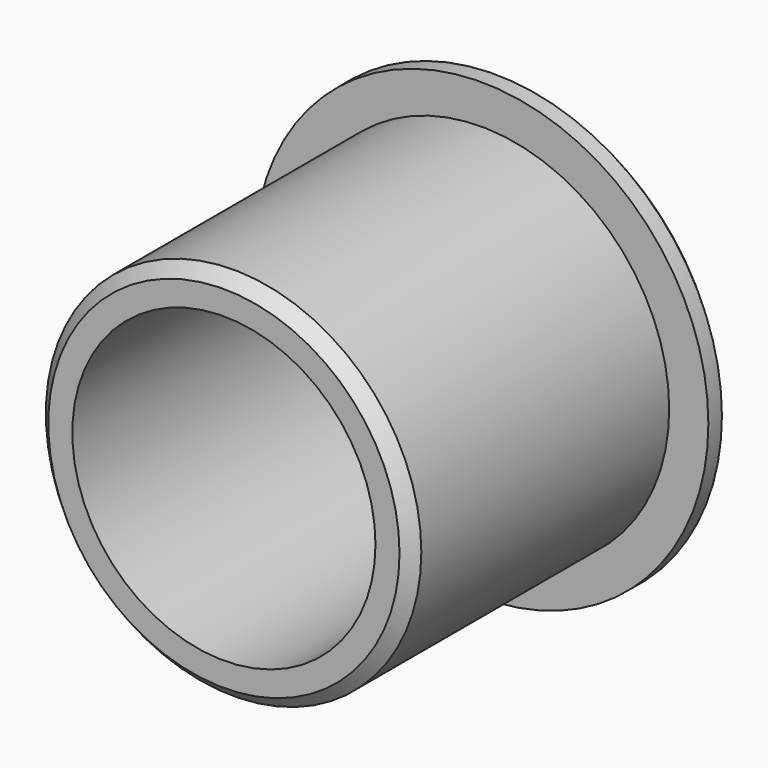
from build123d import *

# Parameters (mm, degrees)
F0_R     = 9.525
F0_R_2   = 6.3627
F1_DEPTH = 1.2192
F2_R     = 7.88035
F2_R_2   = 6.3627
F3_DEPTH = 13.5128
F4_SIZE2 = 0.508
F4_SIZE  = 0.508


with BuildPart() as f1:
    # F0 (on Front) → F1 (new body)
    with BuildSketch(Plane.XZ):
        Circle(F0_R)
        Circle(F0_R_2, mode=Mode.SUBTRACT)
    extrude(amount=F1_DEPTH)

    # F2 (on face) → F3 (join)
    with BuildSketch(Plane.XZ.offset(1.2192)):
        Circle(F2_R)
        Circle(F2_R_2, mode=Mode.SUBTRACT)
    extrude(amount=F3_DEPTH)

    # F4
    f4_edges = [f1.edges().sort_by_distance(p)[0] for p in [
        (-9.525, 0, 0),
        (-7.88035, -14.732, 0),
    ]]
    chamfer(f4_edges, length=F4_SIZE, length2=F4_SIZE2)


solid = f1.part
